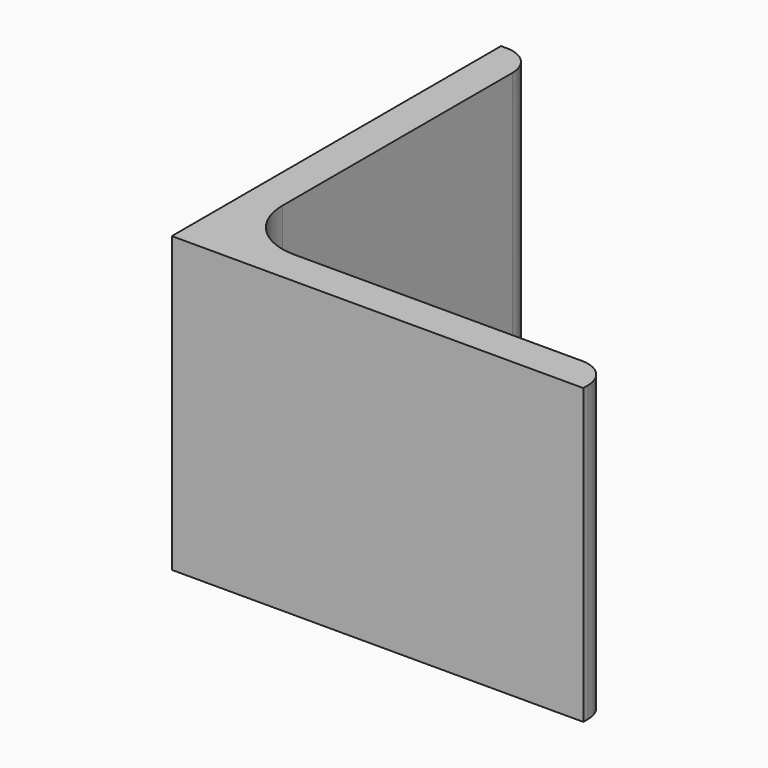
from build123d import *

# Parameters (mm, degrees)
EXTRUDE_DEPTH = 50


with BuildPart() as part:
    # Sketch → Extrude (new body)
    with BuildSketch(Plane.XY):
        with BuildLine():
            Line((0, 0), (70, 0))
            Line((70, 0), (70, 1))
            ThreePointArc((70, 1), (68.535534, 4.535534), (65, 6))
            Line((65, 6), (16, 6))
            ThreePointArc((6, 16), (8.928932, 8.928932), (16, 6))
            Line((6, 65), (6, 16))
            ThreePointArc((6, 65), (4.535534, 68.535534), (1, 70))
            Line((0, 70), (1, 70))
            Line((0, 0), (0, 70))
        make_face()
    extrude(amount=EXTRUDE_DEPTH)


solid = part.part
